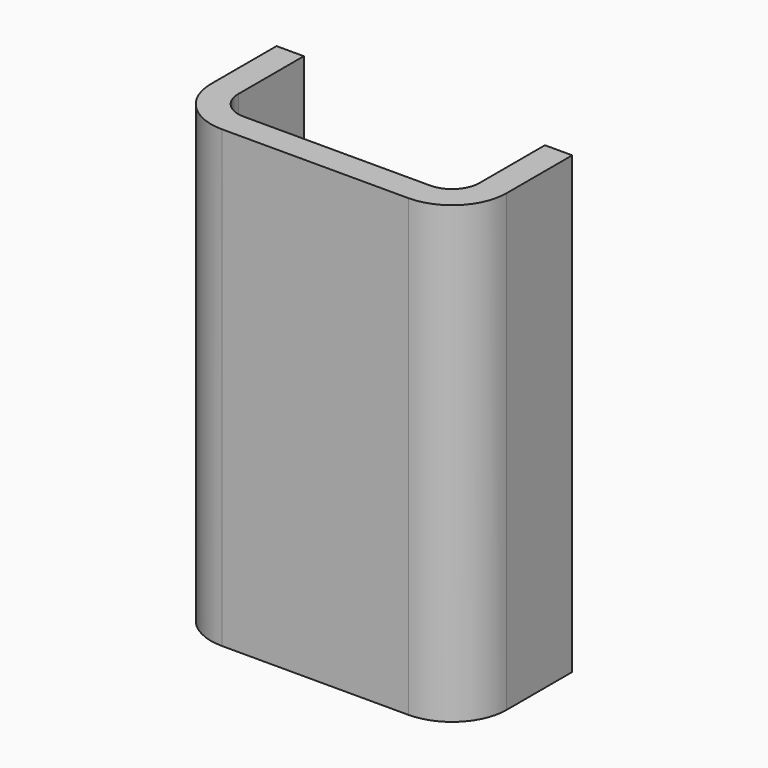
from build123d import *

# Parameters (mm, degrees)
F1_DEPTH = 100
F2_R     = 6
F3_R     = 12


with BuildPart() as f1:
    # F0 (on Top) → F1 (new body)
    with BuildSketch(Plane.XY):
        Polygon((0, 6), (0, 0), (32.5, 0), (32.5, 30), (26.5, 30), (26.5, 6), align=None)
        Polygon((-32.5, 0), (0, 0), (0, 6), (-26.5, 6), (-26.5, 30), (-32.5, 30), align=None)
    extrude(amount=F1_DEPTH)

    # F2
    f2_edges = [f1.edges().sort_by_distance(p)[0] for p in [
        (26.5, 6, 50),
        (-26.5, 6, 50),
    ]]
    fillet(f2_edges, radius=F2_R)

    # F3
    f3_edges = [f1.edges().sort_by_distance(p)[0] for p in [
        (32.5, 0, 50),
        (-32.5, 0, 50),
    ]]
    fillet(f3_edges, radius=F3_R)


solid = f1.part
